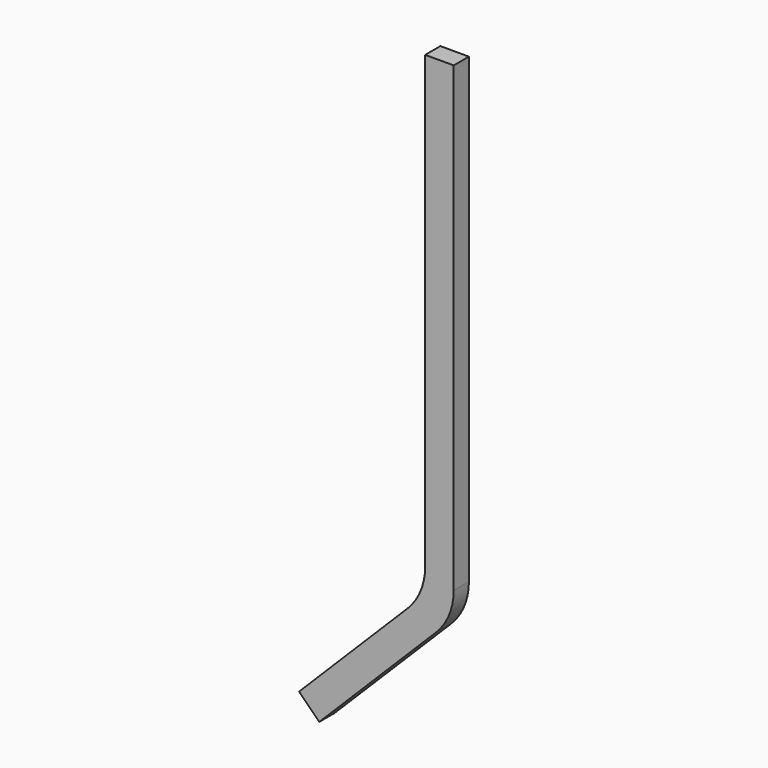
from build123d import *

# Parameters (mm, degrees)
F1_DEPTH = 1


with BuildPart() as f1:
    # F0 (on Front) → F1 (new body, symmetric)
    with BuildSketch(Plane.XZ):
        with BuildLine():
            ThreePointArc((-1.859872, -1.859872), (-0.483365, 0.200216), (0, 2.630256))
            Line((0, 2.630256), (0, 51.242641))
            Line((0, 51.242641), (-3, 51.242641))
            Line((-3, 51.242641), (-3, 3.872897))
            ThreePointArc((-3, 3.872897), (-3.483365, 1.442857), (-4.859872, -0.617231))
            Line((-4.859872, -0.617231), (-16.263456, -12.020815))
            Line((-16.263456, -12.020815), (-14.142136, -14.142136))
            Line((-14.142136, -14.142136), (-1.859872, -1.859872))
        make_face()
    extrude(amount=F1_DEPTH, both=True)


solid = f1.part
